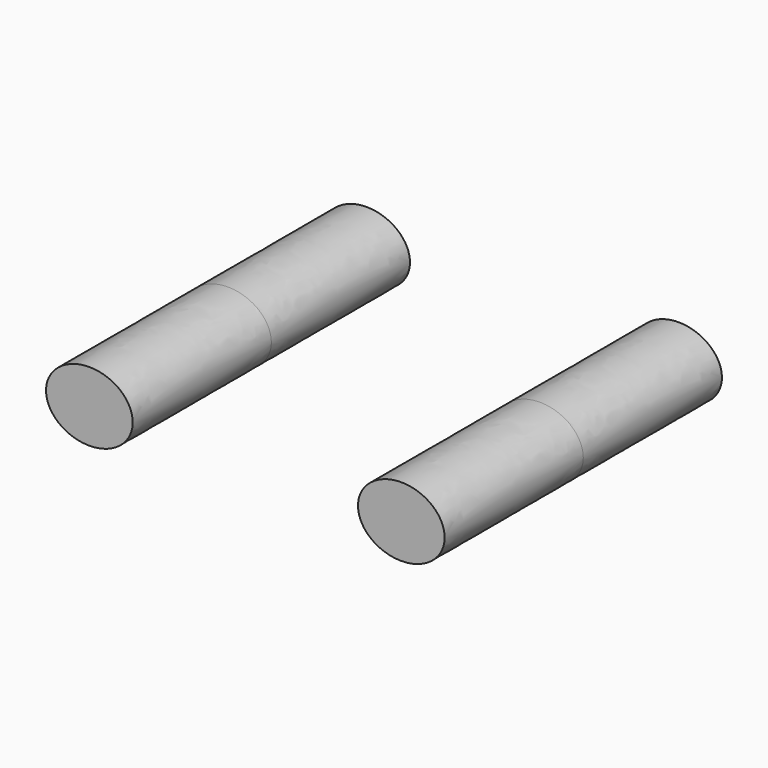
from build123d import *

# Parameters (mm, degrees)
F1_DEPTH = 6.35


with BuildPart() as f1:
    # F0 (on Front) → F1 (new body, symmetric)
    with BuildSketch(Plane.XZ):
        with BuildLine():
            add(Edge.make_bspline(
                [(-4.1275, 0), (-4.1275, 2.199705), (-6.50875, 1.099852), (-8.89, 0), (-6.50875, -1.099852), (-4.1275, -2.199705), (-4.1275, 0)],
                knots=[0, 0, 0, 2.094395, 2.094395, 4.18879, 4.18879, 6.283185, 6.283185, 6.283185], degree=2, weights=[1, 0.5, 1, 0.5, 1, 0.5, 1]))
        make_face()
        with BuildLine():
            add(Edge.make_bspline(
                [(7.3025, 0), (7.3025, 2.199705), (4.92125, 1.099852), (2.54, 0), (4.92125, -1.099852), (7.3025, -2.199705), (7.3025, 0)],
                knots=[0, 0, 0, 2.094395, 2.094395, 4.18879, 4.18879, 6.283185, 6.283185, 6.283185], degree=2, weights=[1, 0.5, 1, 0.5, 1, 0.5, 1]))
        make_face()
    extrude(amount=F1_DEPTH, both=True)


solid = f1.part
